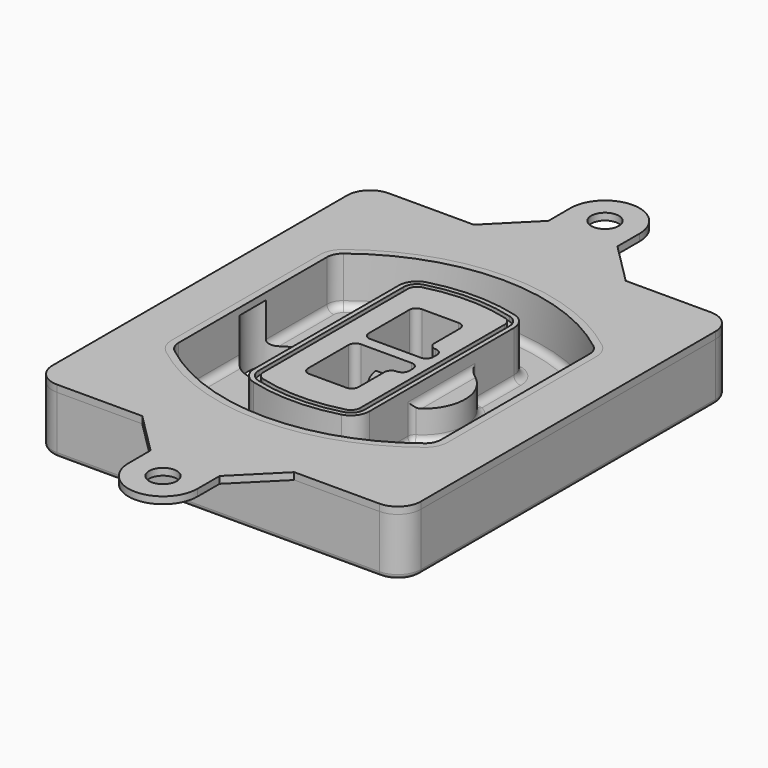
from build123d import *

# Parameters (mm, degrees)
F0_R      = 4
F1_DEPTH  = 25
F2_DEPTH  = 3
F3_DEPTH  = 18
F5_DEPTH  = 21
F6_DEPTH  = 2
F8_DEPTH  = 20
F9_DEPTH  = 16
F10_DEPTH = 25
F7_R      = 6
F7_R_2    = 4
F11_DEPTH = 6
F13_DEPTH = 9
F14_R     = 3
F15_R     = 2
F16_R     = 6
F17_DEPTH = 3


with BuildPart() as f1:
    # F0 (on Top) → F1 (new body)
    with BuildSketch(Plane.XY):
        with BuildLine():
            ThreePointArc((-80, -80), (-77.0710678119, -87.0710678119), (-70, -90))
            Line((-70, -90), (70, -90))
            ThreePointArc((70, -90), (77.0710678119, -87.0710678119), (80, -80))
            Line((80, -80), (80, 80))
            ThreePointArc((80, 80), (77.0710678119, 87.0710678119), (70, 90))
            Line((70, 90), (-70, 90))
            ThreePointArc((-70, 90), (-77.0710678119, 87.0710678119), (-80, 80))
            Line((-80, 80), (-80, -80))
        make_face()
        with Locations((-60, -67.5)):
            Circle(F0_R, mode=Mode.SUBTRACT)
        with Locations((60, -67.5)):
            Circle(F0_R, mode=Mode.SUBTRACT)
        with Locations((-60, 67.5)):
            Circle(F0_R, mode=Mode.SUBTRACT)
        with BuildLine():
            ThreePointArc((-64, 40.2934422872), (-62.5820384798, 46.4328484224), (-58.6153846154, 51.3286200352))
            ThreePointArc((-58.6153846154, 51.3286200352), (0, 71.5), (58.6153846154, 51.3286200352))
            ThreePointArc((58.6153846154, 51.3286200352), (62.5820384798, 46.4328484224), (64, 40.2934422872))
            Line((64, 40.2934422872), (64, -40.2934422872))
            ThreePointArc((64, -40.2934422872), (62.5820384798, -46.4328484224), (58.6153846154, -51.3286200352))
            ThreePointArc((58.6153846154, -51.3286200352), (0, -71.5), (-58.6153846154, -51.3286200352))
            ThreePointArc((-58.6153846154, -51.3286200352), (-62.5820384798, -46.4328484224), (-64, -40.2934422872))
            Line((-64, -40.2934422872), (-64, 40.2934422872))
        make_face(mode=Mode.SUBTRACT)
        with Locations((60, 67.5)):
            Circle(F0_R, mode=Mode.SUBTRACT)
        with BuildLine():
            ThreePointArc((58.6153846154, 51.3286200352), (0, 71.5), (-58.6153846154, 51.3286200352))
            ThreePointArc((-58.6153846154, 51.3286200352), (-62.5820384798, 46.4328484224), (-64, 40.2934422872))
            Line((-64, 40.2934422872), (-64, -40.2934422872))
            ThreePointArc((-64, -40.2934422872), (-62.5820384798, -46.4328484224), (-58.6153846154, -51.3286200352))
            ThreePointArc((-58.6153846154, -51.3286200352), (0, -71.5), (58.6153846154, -51.3286200352))
            ThreePointArc((58.6153846154, -51.3286200352), (62.5820384798, -46.4328484224), (64, -40.2934422872))
            Line((64, -40.2934422872), (64, 40.2934422872))
            ThreePointArc((64, 40.2934422872), (62.5820384798, 46.4328484224), (58.6153846154, 51.3286200352))
        make_face()
        with BuildLine():
            Line((-60, -40.2934422872), (-60, 40.2934422872))
            ThreePointArc((-60, 40.2934422872), (-58.9871703427, 44.6787323838), (-56.1538461538, 48.1757121072))
            ThreePointArc((-56.1538461538, 48.1757121072), (0, 67.5), (56.1538461538, 48.1757121072))
            ThreePointArc((56.1538461538, 48.1757121072), (58.9871703427, 44.6787323838), (60, 40.2934422872))
            Line((60, 40.2934422872), (60, -40.2934422872))
            ThreePointArc((60, -40.2934422872), (58.9871703427, -44.6787323838), (56.1538461538, -48.1757121072))
            ThreePointArc((56.1538461538, -48.1757121072), (0, -67.5), (-56.1538461538, -48.1757121072))
            ThreePointArc((-56.1538461538, -48.1757121072), (-58.9871703427, -44.6787323838), (-60, -40.2934422872))
        make_face(mode=Mode.SUBTRACT)
        with BuildLine():
            ThreePointArc((-56.1538461538, 48.1757121072), (-58.9871703427, 44.6787323838), (-60, 40.2934422872))
            Line((-60, 40.2934422872), (-60, -40.2934422872))
            ThreePointArc((-60, -40.2934422872), (-58.9871703427, -44.6787323838), (-56.1538461538, -48.1757121072))
            ThreePointArc((-56.1538461538, -48.1757121072), (0, -67.5), (56.1538461538, -48.1757121072))
            ThreePointArc((56.1538461538, -48.1757121072), (58.9871703427, -44.6787323838), (60, -40.2934422872))
            Line((60, -40.2934422872), (60, 40.2934422872))
            ThreePointArc((60, 40.2934422872), (58.9871703427, 44.6787323838), (56.1538461538, 48.1757121072))
            ThreePointArc((56.1538461538, 48.1757121072), (0, 67.5), (-56.1538461538, 48.1757121072))
        make_face()
        with BuildLine():
            ThreePointArc((54.3076923077, 45.8110311612), (56.2910192399, 43.3631453548), (57, 40.2934422872))
            Line((57, 40.2934422872), (57, -40.2934422872))
            ThreePointArc((57, -40.2934422872), (56.2910192399, -43.3631453548), (54.3076923077, -45.8110311612))
            ThreePointArc((54.3076923077, -45.8110311612), (0, -64.5), (-54.3076923077, -45.8110311612))
            ThreePointArc((-54.3076923077, -45.8110311612), (-56.2910192399, -43.3631453548), (-57, -40.2934422872))
            Line((-57, -40.2934422872), (-57, 40.2934422872))
            ThreePointArc((-57, 40.2934422872), (-56.2910192399, 43.3631453548), (-54.3076923077, 45.8110311612))
            ThreePointArc((-54.3076923077, 45.8110311612), (0, 64.5), (54.3076923077, 45.8110311612))
        make_face(mode=Mode.SUBTRACT)
        with BuildLine():
            Line((57, -40.2934422872), (57, 40.2934422872))
            ThreePointArc((57, 40.2934422872), (56.2910192399, 43.3631453548), (54.3076923077, 45.8110311612))
            ThreePointArc((54.3076923077, 45.8110311612), (0, 64.5), (-54.3076923077, 45.8110311612))
            ThreePointArc((-54.3076923077, 45.8110311612), (-56.2910192399, 43.3631453548), (-57, 40.2934422872))
            Line((-57, 40.2934422872), (-57, -40.2934422872))
            ThreePointArc((-57, -40.2934422872), (-56.2910192399, -43.3631453548), (-54.3076923077, -45.8110311612))
            ThreePointArc((-54.3076923077, -45.8110311612), (0, -64.5), (54.3076923077, -45.8110311612))
            ThreePointArc((54.3076923077, -45.8110311612), (56.2910192399, -43.3631453548), (57, -40.2934422872))
        make_face()
    extrude(amount=-F1_DEPTH)

    # F0 (on Top) → F2 (join)
    with BuildSketch(Plane.XY):
        with BuildLine():
            ThreePointArc((-56.1538461538, 48.1757121072), (-58.9871703427, 44.6787323838), (-60, 40.2934422872))
            Line((-60, 40.2934422872), (-60, -40.2934422872))
            ThreePointArc((-60, -40.2934422872), (-58.9871703427, -44.6787323838), (-56.1538461538, -48.1757121072))
            ThreePointArc((-56.1538461538, -48.1757121072), (0, -67.5), (56.1538461538, -48.1757121072))
            ThreePointArc((56.1538461538, -48.1757121072), (58.9871703427, -44.6787323838), (60, -40.2934422872))
            Line((60, -40.2934422872), (60, 40.2934422872))
            ThreePointArc((60, 40.2934422872), (58.9871703427, 44.6787323838), (56.1538461538, 48.1757121072))
            ThreePointArc((56.1538461538, 48.1757121072), (0, 67.5), (-56.1538461538, 48.1757121072))
        make_face()
        with BuildLine():
            ThreePointArc((54.3076923077, 45.8110311612), (56.2910192399, 43.3631453548), (57, 40.2934422872))
            Line((57, 40.2934422872), (57, -40.2934422872))
            ThreePointArc((57, -40.2934422872), (56.2910192399, -43.3631453548), (54.3076923077, -45.8110311612))
            ThreePointArc((54.3076923077, -45.8110311612), (0, -64.5), (-54.3076923077, -45.8110311612))
            ThreePointArc((-54.3076923077, -45.8110311612), (-56.2910192399, -43.3631453548), (-57, -40.2934422872))
            Line((-57, -40.2934422872), (-57, 40.2934422872))
            ThreePointArc((-57, 40.2934422872), (-56.2910192399, 43.3631453548), (-54.3076923077, 45.8110311612))
            ThreePointArc((-54.3076923077, 45.8110311612), (0, 64.5), (54.3076923077, 45.8110311612))
        make_face(mode=Mode.SUBTRACT)
    extrude(amount=F2_DEPTH)

    # F0 (on Top) → F3 (cut)
    with BuildSketch(Plane.XY):
        with BuildLine():
            Line((57, -40.2934422872), (57, 40.2934422872))
            ThreePointArc((57, 40.2934422872), (56.2910192399, 43.3631453548), (54.3076923077, 45.8110311612))
            ThreePointArc((54.3076923077, 45.8110311612), (0, 64.5), (-54.3076923077, 45.8110311612))
            ThreePointArc((-54.3076923077, 45.8110311612), (-56.2910192399, 43.3631453548), (-57, 40.2934422872))
            Line((-57, 40.2934422872), (-57, -40.2934422872))
            ThreePointArc((-57, -40.2934422872), (-56.2910192399, -43.3631453548), (-54.3076923077, -45.8110311612))
            ThreePointArc((-54.3076923077, -45.8110311612), (0, -64.5), (54.3076923077, -45.8110311612))
            ThreePointArc((54.3076923077, -45.8110311612), (56.2910192399, -43.3631453548), (57, -40.2934422872))
        make_face()
    extrude(amount=-F3_DEPTH, mode=Mode.SUBTRACT)

    # F4 (on face) → F5 (join, through all)
    with BuildSketch(Plane.XY.offset(3)):
        with BuildLine():
            ThreePointArc((-25, -39.2465276821), (-23.3511545998, -44.1109737193), (-19.0842911877, -46.9702398883))
            ThreePointArc((-19.0842911877, -46.9702398883), (0, -49.5), (19.0842911877, -46.9702398883))
            ThreePointArc((19.0842911877, -46.9702398883), (23.3511545998, -44.1109737193), (25, -39.2465276821))
            Line((25, -39.2465276821), (25, 39.2465276821))
            ThreePointArc((25, 39.2465276821), (23.3511545998, 44.1109737193), (19.0842911877, 46.9702398883))
            ThreePointArc((19.0842911877, 46.9702398883), (0, 49.5), (-19.0842911877, 46.9702398883))
            ThreePointArc((-19.0842911877, 46.9702398883), (-23.3511545998, 44.1109737193), (-25, 39.2465276821))
            Line((-25, 39.2465276821), (-25, -39.2465276821))
        make_face()
        with BuildLine():
            ThreePointArc((18.5632183908, 45.0393118368), (21.7633659499, 42.89486221), (23, 39.2465276821))
            Line((23, 39.2465276821), (23, -39.2465276821))
            ThreePointArc((23, -39.2465276821), (21.7633659499, -42.89486221), (18.5632183908, -45.0393118368))
            ThreePointArc((18.5632183908, -45.0393118368), (0, -47.5), (-18.5632183908, -45.0393118368))
            ThreePointArc((-18.5632183908, -45.0393118368), (-21.7633659499, -42.89486221), (-23, -39.2465276821))
            Line((-23, -39.2465276821), (-23, 39.2465276821))
            ThreePointArc((-23, 39.2465276821), (-21.7633659499, 42.89486221), (-18.5632183908, 45.0393118368))
            ThreePointArc((-18.5632183908, 45.0393118368), (0, 47.5), (18.5632183908, 45.0393118368))
        make_face(mode=Mode.SUBTRACT)
        with BuildLine():
            Line((23, -39.2465276821), (23, 39.2465276821))
            ThreePointArc((23, 39.2465276821), (21.7633659499, 42.89486221), (18.5632183908, 45.0393118368))
            ThreePointArc((18.5632183908, 45.0393118368), (0, 47.5), (-18.5632183908, 45.0393118368))
            ThreePointArc((-18.5632183908, 45.0393118368), (-21.7633659499, 42.89486221), (-23, 39.2465276821))
            Line((-23, 39.2465276821), (-23, -39.2465276821))
            ThreePointArc((-23, -39.2465276821), (-21.7633659499, -42.89486221), (-18.5632183908, -45.0393118368))
            ThreePointArc((-18.5632183908, -45.0393118368), (0, -47.5), (18.5632183908, -45.0393118368))
            ThreePointArc((18.5632183908, -45.0393118368), (21.7633659499, -42.89486221), (23, -39.2465276821))
        make_face()
        with BuildLine():
            ThreePointArc((18.0421455939, 43.1083837852), (20.1755772999, 41.6787507007), (21, 39.2465276821))
            Line((21, 39.2465276821), (21, -39.2465276821))
            ThreePointArc((21, -39.2465276821), (20.1755772999, -41.6787507007), (18.0421455939, -43.1083837852))
            ThreePointArc((18.0421455939, -43.1083837852), (0, -45.5), (-18.0421455939, -43.1083837852))
            ThreePointArc((-18.0421455939, -43.1083837852), (-20.1755772999, -41.6787507007), (-21, -39.2465276821))
            Line((-21, -39.2465276821), (-21, 39.2465276821))
            ThreePointArc((-21, 39.2465276821), (-20.1755772999, 41.6787507007), (-18.0421455939, 43.1083837852))
            ThreePointArc((-18.0421455939, 43.1083837852), (0, 45.5), (18.0421455939, 43.1083837852))
        make_face(mode=Mode.SUBTRACT)
        with BuildLine():
            Line((21, -39.2465276821), (21, 39.2465276821))
            ThreePointArc((21, 39.2465276821), (20.1755772999, 41.6787507007), (18.0421455939, 43.1083837852))
            ThreePointArc((18.0421455939, 43.1083837852), (0, 45.5), (-18.0421455939, 43.1083837852))
            ThreePointArc((-18.0421455939, 43.1083837852), (-20.1755772999, 41.6787507007), (-21, 39.2465276821))
            Line((-21, 39.2465276821), (-21, -39.2465276821))
            ThreePointArc((-21, -39.2465276821), (-20.1755772999, -41.6787507007), (-18.0421455939, -43.1083837852))
            ThreePointArc((-18.0421455939, -43.1083837852), (0, -45.5), (18.0421455939, -43.1083837852))
            ThreePointArc((18.0421455939, -43.1083837852), (20.1755772999, -41.6787507007), (21, -39.2465276821))
        make_face()
        with BuildLine():
            Line((-8, -2.5), (14, -2.5))
            ThreePointArc((14, -2.5), (16.1213203436, -3.3786796564), (17, -5.5))
            Line((17, -5.5), (17, -7.5))
            ThreePointArc((17, -7.5), (16.1213203436, -9.6213203436), (14, -10.5))
            ThreePointArc((14, -10.5), (11.8786796564, -11.3786796564), (11, -13.5))
            Line((11, -13.5), (11, -27.5))
            ThreePointArc((11, -27.5), (10.1213203436, -29.6213203436), (8, -30.5))
            Line((8, -30.5), (-8, -30.5))
            ThreePointArc((-8, -30.5), (-10.1213203436, -29.6213203436), (-11, -27.5))
            Line((-11, -27.5), (-11, -5.5))
            ThreePointArc((-11, -5.5), (-10.1213203436, -3.3786796564), (-8, -2.5))
        make_face(mode=Mode.SUBTRACT)
        with BuildLine():
            ThreePointArc((-8, 2.5), (-10.1213203436, 3.3786796564), (-11, 5.5))
            Line((-11, 5.5), (-11, 27.5))
            ThreePointArc((-11, 27.5), (-10.1213203436, 29.6213203436), (-8, 30.5))
            Line((-8, 30.5), (8, 30.5))
            ThreePointArc((8, 30.5), (10.1213203436, 29.6213203436), (11, 27.5))
            Line((11, 27.5), (11, 13.5))
            ThreePointArc((11, 13.5), (11.8786796564, 11.3786796564), (14, 10.5))
            ThreePointArc((14, 10.5), (16.1213203436, 9.6213203436), (17, 7.5))
            Line((17, 7.5), (17, 5.5))
            ThreePointArc((17, 5.5), (16.1213203436, 3.3786796564), (14, 2.5))
            Line((14, 2.5), (-8, 2.5))
        make_face(mode=Mode.SUBTRACT)
    extrude(amount=-F5_DEPTH)

    # F4 (on face) → F6 (cut)
    with BuildSketch(Plane.XY.offset(3)):
        with BuildLine():
            Line((23, -39.2465276821), (23, 39.2465276821))
            ThreePointArc((23, 39.2465276821), (21.7633659499, 42.89486221), (18.5632183908, 45.0393118368))
            ThreePointArc((18.5632183908, 45.0393118368), (0, 47.5), (-18.5632183908, 45.0393118368))
            ThreePointArc((-18.5632183908, 45.0393118368), (-21.7633659499, 42.89486221), (-23, 39.2465276821))
            Line((-23, 39.2465276821), (-23, -39.2465276821))
            ThreePointArc((-23, -39.2465276821), (-21.7633659499, -42.89486221), (-18.5632183908, -45.0393118368))
            ThreePointArc((-18.5632183908, -45.0393118368), (0, -47.5), (18.5632183908, -45.0393118368))
            ThreePointArc((18.5632183908, -45.0393118368), (21.7633659499, -42.89486221), (23, -39.2465276821))
        make_face()
        with BuildLine():
            ThreePointArc((18.0421455939, 43.1083837852), (20.1755772999, 41.6787507007), (21, 39.2465276821))
            Line((21, 39.2465276821), (21, -39.2465276821))
            ThreePointArc((21, -39.2465276821), (20.1755772999, -41.6787507007), (18.0421455939, -43.1083837852))
            ThreePointArc((18.0421455939, -43.1083837852), (0, -45.5), (-18.0421455939, -43.1083837852))
            ThreePointArc((-18.0421455939, -43.1083837852), (-20.1755772999, -41.6787507007), (-21, -39.2465276821))
            Line((-21, -39.2465276821), (-21, 39.2465276821))
            ThreePointArc((-21, 39.2465276821), (-20.1755772999, 41.6787507007), (-18.0421455939, 43.1083837852))
            ThreePointArc((-18.0421455939, 43.1083837852), (0, 45.5), (18.0421455939, 43.1083837852))
        make_face(mode=Mode.SUBTRACT)
    extrude(amount=-F6_DEPTH, mode=Mode.SUBTRACT)

    # F7 (on face) → F8 (join)
    with BuildSketch(Plane(origin=(0, 0, -25), x_dir=(1, 0, 0), z_dir=(0, 0, -1))):
        with BuildLine():
            ThreePointArc((3.28842436, 0), (16.7567035675, 13.4682792075), (30.224982775, 0))
            Line((30.224982775, 0), (35.224982775, 0))
            ThreePointArc((35.224982775, 0), (16.7567035675, 18.4682792075), (-1.71157564, 0))
            Line((-1.71157564, 0), (3.28842436, 0))
        make_face()
        with BuildLine():
            Line((3.28842436, 0), (30.224982775, 0))
            ThreePointArc((30.224982775, 0), (16.7567035675, 13.4682792075), (3.28842436, 0))
        make_face()
        with BuildLine():
            ThreePointArc((3.28842436, 0), (16.7567035675, -13.4682792075), (30.224982775, 0))
            Line((30.224982775, 0), (3.28842436, 0))
        make_face()
        with BuildLine():
            Line((35.224982775, 0), (30.224982775, 0))
            ThreePointArc((30.224982775, 0), (16.7567035675, -13.4682792075), (3.28842436, 0))
            Line((3.28842436, 0), (-1.71157564, 0))
            ThreePointArc((-1.71157564, 0), (16.7567035675, -18.4682792075), (35.224982775, 0))
        make_face()
    extrude(amount=-F8_DEPTH)

    # F7 (on face) → F9 (cut)
    with BuildSketch(Plane(origin=(0, 0, -25), x_dir=(1, 0, 0), z_dir=(0, 0, -1))):
        with BuildLine():
            Line((3.28842436, 0), (30.224982775, 0))
            ThreePointArc((30.224982775, 0), (16.7567035675, 13.4682792075), (3.28842436, 0))
        make_face()
        with BuildLine():
            ThreePointArc((3.28842436, 0), (16.7567035675, -13.4682792075), (30.224982775, 0))
            Line((30.224982775, 0), (3.28842436, 0))
        make_face()
    extrude(amount=-F9_DEPTH, mode=Mode.SUBTRACT)

    # F7 (on face) → F10 (cut)
    with BuildSketch(Plane(origin=(0, 0, -25), x_dir=(1, 0, 0), z_dir=(0, 0, -1))):
        with BuildLine():
            Line((-59.0318229325, 0), (-32.0952645175, 0))
            ThreePointArc((-32.0952645175, 0), (-45.563543725, 13.4682792075), (-59.0318229325, 0))
        make_face()
        with BuildLine():
            ThreePointArc((-59.0318229325, 0), (-45.563543725, -13.4682792075), (-32.0952645175, 0))
            Line((-32.0952645175, 0), (-59.0318229325, 0))
        make_face()
    extrude(amount=-F10_DEPTH, mode=Mode.SUBTRACT)

    # F7 (on face) → F11 (cut)
    with BuildSketch(Plane(origin=(0, 0, -25), x_dir=(1, 0, 0), z_dir=(0, 0, -1))):
        with Locations((60, -67.5)):
            Circle(F7_R)
        with Locations((60, -67.5)):
            Circle(F7_R_2, mode=Mode.SUBTRACT)
        with Locations((60, -67.5)):
            Circle(F7_R)
        with Locations((60, -67.5)):
            Circle(F7_R_2, mode=Mode.SUBTRACT)
        with Locations((-60, -67.5)):
            Circle(F7_R)
        with Locations((-60, -67.5)):
            Circle(F7_R_2, mode=Mode.SUBTRACT)
        with Locations((-60, -67.5)):
            Circle(F7_R)
        with Locations((-60, -67.5)):
            Circle(F7_R_2, mode=Mode.SUBTRACT)
        with Locations((-60, 67.5)):
            Circle(F7_R)
        with Locations((-60, 67.5)):
            Circle(F7_R_2, mode=Mode.SUBTRACT)
        with Locations((-60, 67.5)):
            Circle(F7_R)
        with Locations((-60, 67.5)):
            Circle(F7_R_2, mode=Mode.SUBTRACT)
        with Locations((60, 67.5)):
            Circle(F7_R)
        with Locations((60, 67.5)):
            Circle(F7_R_2, mode=Mode.SUBTRACT)
        with Locations((60, 67.5)):
            Circle(F7_R)
        with Locations((60, 67.5)):
            Circle(F7_R_2, mode=Mode.SUBTRACT)
    extrude(amount=-F11_DEPTH, mode=Mode.SUBTRACT)

    # F12 (on face) → F13 (cut, through all)
    with BuildSketch(Plane(origin=(0, 0, -9), x_dir=(1, 0, 0), z_dir=(0, 0, -1))):
        with BuildLine():
            Line((11, 13.5), (11, 17.5481537753))
            ThreePointArc((11, 17.5481537753), (2.5696536419, 11.8239143813), (-1.5415842455, 2.5))
            Line((-1.5415842455, 2.5), (3.5224848595, 2.5))
            ThreePointArc((3.5224848595, 2.5), (6.1857188154, 8.3455872281), (11.2536447004, 12.2927168648))
            ThreePointArc((11.2536447004, 12.2927168648), (11.0640958889, 12.8831798879), (11, 13.5))
        make_face()
        with BuildLine():
            ThreePointArc((11.2536447004, -12.2927168648), (6.1857188154, -8.3455872281), (3.5224848595, -2.5))
            Line((3.5224848595, -2.5), (-1.5415842455, -2.5))
            ThreePointArc((-1.5415842455, -2.5), (2.5696536419, -11.8239143813), (11, -17.5481537753))
            Line((11, -17.5481537753), (11, -13.5))
            ThreePointArc((11, -13.5), (11.0640958889, -12.8831798879), (11.2536447004, -12.2927168648))
        make_face()
        with BuildLine():
            ThreePointArc((11.2536447004, 12.2927168648), (6.1857188154, 8.3455872281), (3.5224848595, 2.5))
            Line((3.5224848595, 2.5), (14, 2.5))
            ThreePointArc((14, 2.5), (16.1213203436, 3.3786796564), (17, 5.5))
            Line((17, 5.5), (17, 7.5))
            ThreePointArc((17, 7.5), (16.1213203436, 9.6213203436), (14, 10.5))
            ThreePointArc((14, 10.5), (12.3601599782, 10.9878446101), (11.2536447004, 12.2927168648))
        make_face()
        with BuildLine():
            Line((14, -2.5), (3.5224848595, -2.5))
            ThreePointArc((3.5224848595, -2.5), (6.1857188154, -8.3455872281), (11.2536447004, -12.2927168648))
            ThreePointArc((11.2536447004, -12.2927168648), (12.3601599782, -10.9878446101), (14, -10.5))
            ThreePointArc((14, -10.5), (16.1213203436, -9.6213203436), (17, -7.5))
            Line((17, -7.5), (17, -5.5))
            ThreePointArc((17, -5.5), (16.1213203436, -3.3786796564), (14, -2.5))
        make_face()
    extrude(amount=F13_DEPTH, mode=Mode.SUBTRACT)

    # F14
    f14_edges = [f1.edges().sort_by_distance(p)[0] for p in [
        (-57, -23.703476, -18),
        (-57, 23.703476, -18),
        (25, 0, -5),
        (25, 16.526506, -11.5),
        (25, -16.526506, -11.5),
        (25, -27.886517, -18),
        (35.224983, 0, -18),
    ]]
    fillet(f14_edges, radius=F14_R)

    # F15
    f15_edges = [f1.edges().sort_by_distance(p)[0] for p in [
        (0, -90, -25),
    ]]
    fillet(f15_edges, radius=F15_R)


with BuildPart() as f17:
    # F16 (on face) → F17 (new body, through all)
    with BuildSketch(Plane.XY):
        with BuildLine():
            ThreePointArc((70, -90), (77.0710678119, -87.0710678119), (80, -80))
            Line((80, -80), (80, 80))
            ThreePointArc((80, 80), (77.0710678119, 87.0710678119), (70, 90))
            Line((70, 90), (33, 90))
            Line((33, 90), (-33, 90))
            Line((-33, 90), (-70, 90))
            ThreePointArc((-70, 90), (-77.0710678119, 87.0710678119), (-80, 80))
            Line((-80, 80), (-80, -80))
            ThreePointArc((-80, -80), (-77.0710678119, -87.0710678119), (-70, -90))
            Line((-70, -90), (-33, -90))
            Line((-33, -90), (33, -90))
            Line((33, -90), (70, -90))
        make_face()
        with BuildLine():
            ThreePointArc((56.1538461538, 48.1757121072), (58.9871703427, 44.6787323838), (60, 40.2934422872))
            Line((60, 40.2934422872), (60, -40.2934422872))
            ThreePointArc((60, -40.2934422872), (58.9871703427, -44.6787323838), (56.1538461538, -48.1757121072))
            ThreePointArc((56.1538461538, -48.1757121072), (0, -67.5), (-56.1538461538, -48.1757121072))
            ThreePointArc((-56.1538461538, -48.1757121072), (-58.9871703427, -44.6787323838), (-60, -40.2934422872))
            Line((-60, -40.2934422872), (-60, 40.2934422872))
            ThreePointArc((-60, 40.2934422872), (-58.9871703427, 44.6787323838), (-56.1538461538, 48.1757121072))
            ThreePointArc((-56.1538461538, 48.1757121072), (0, 67.5), (56.1538461538, 48.1757121072))
        make_face(mode=Mode.SUBTRACT)
        with BuildLine():
            Line((15, -108), (33, -90))
            Line((33, -90), (-33, -90))
            Line((-33, -90), (-15, -108))
            Line((-15, -108), (-15, -120))
            ThreePointArc((-15, -120), (0, -135), (15, -120))
            Line((15, -120), (15, -108))
        make_face()
        with Locations((0, -120)):
            Circle(F16_R, mode=Mode.SUBTRACT)
        with BuildLine():
            Line((-33, 90), (33, 90))
            Line((33, 90), (15, 108))
            Line((15, 108), (15, 120))
            ThreePointArc((15, 120), (0, 135), (-15, 120))
            Line((-15, 120), (-15, 108))
            Line((-15, 108), (-33, 90))
        make_face()
        with Locations((0, 120)):
            Circle(F16_R, mode=Mode.SUBTRACT)
    extrude(amount=F17_DEPTH)


solid = Compound([f1.part, f17.part])
